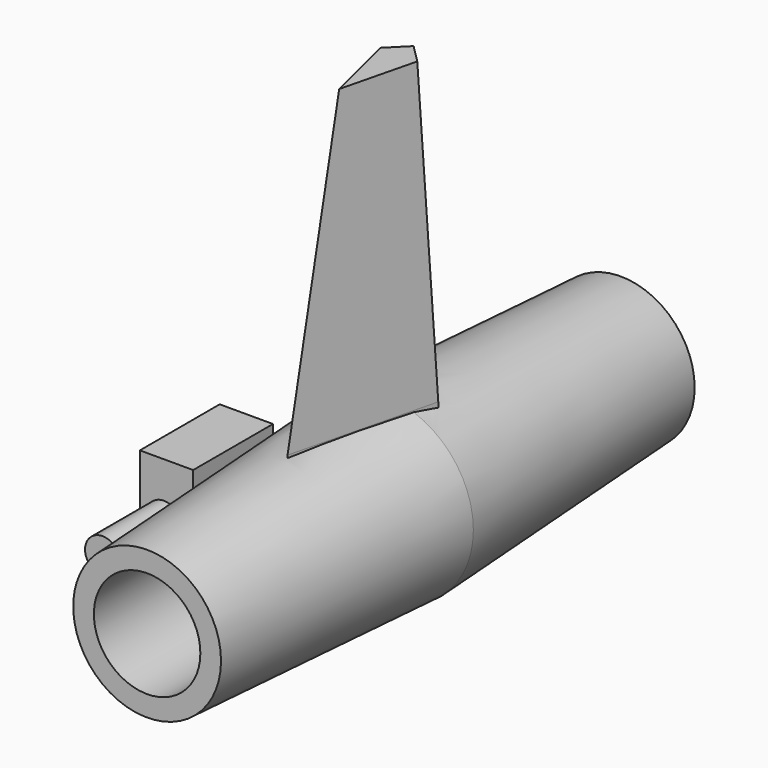
from build123d import *

# Parameters (mm, degrees)
F0_R          = 7.6724970278
F1_DEPTH      = 25.4
F1_TAPER      = 3
F1_DEPTH_BACK = 25.4
F1_TAPER_BACK = 3
F4_DEPTH      = 25.4
F4_TAPER      = 3
F4_DEPTH_BACK = 13.716
F6_W          = 8.5597652942
F6_H          = 9.2730754986
F7_DEPTH      = 4.572
F8_R          = 1.5035458926
F9_DEPTH      = 6.5786
F10_R         = 4.568572737
F11_DEPTH     = 53.594


with BuildPart() as f1:
    # F0 (on Front) → F1 (new body, two sides)
    with BuildSketch(Plane.XZ) as f1_sk:
        Circle(F0_R)
    extrude(amount=F1_DEPTH, taper=F1_TAPER)
    extrude(f1_sk.sketch, amount=-F1_DEPTH_BACK, taper=F1_TAPER_BACK)

    # F3 (on offset) → F4 (join, two sides)
    with BuildSketch(Plane.XY.offset(7.366)) as f4_sk:
        Polygon((-3.0564728829, 2.0075347275), (0, -10.3387202816), (3.0564728829, 2.0075347275), (0, 5.0640076103), align=None)
    extrude(amount=F4_DEPTH, taper=F4_TAPER)
    extrude(f4_sk.sketch, amount=-F4_DEPTH_BACK)

    # F6 (on offset) → F7 (join)
    with BuildSketch(Plane.YZ.offset(-6.858)):
        with Locations((-7.6086781919, 0)):
            Rectangle(F6_W, F6_H)
    extrude(amount=-F7_DEPTH)

    # F8 (on face) → F9 (join)
    with BuildSketch(Plane.XZ.offset(11.888560839)):
        with Locations((-9.369360283, 0)):
            Circle(F8_R)
    extrude(amount=F9_DEPTH)

    # F10 (on face) → F11 (cut)
    with BuildSketch(Plane.XZ.offset(25.4)):
        Circle(F10_R)
    extrude(amount=-F11_DEPTH, mode=Mode.SUBTRACT)


solid = f1.part
